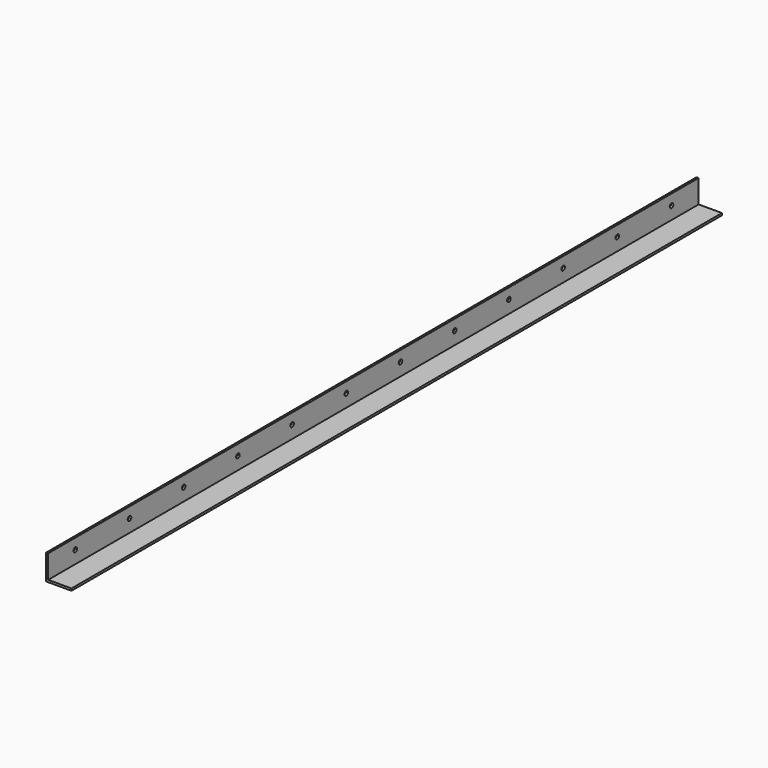
from build123d import *

# Parameters (mm, degrees)
F1_DEPTH = 2438.4
F3_D     = 13.4874


with BuildPart() as f1:
    # F0 (on Front) → F1 (new body)
    with BuildSketch(Plane.XZ):
        Polygon((-57.316309, 46.347476), (-63.666309, 46.347476), (-63.666309, -29.852524), (12.533691, -29.852524), (12.533691, -23.502524), (-57.316309, -23.502524), align=None)
    extrude(amount=F1_DEPTH)

    # F3 (through all)
    with Locations(Plane(origin=(-63.666309, 0, 0), x_dir=(0, -1, 0), z_dir=(-1, 0, 0))):
        with Locations((2336.8, 14.597476), (2133.6, 14.597476), (1930.4, 14.597476), (1727.2, 14.597476), (1524, 14.597476), (1320.8, 14.597476), (1117.6, 14.597476), (914.4, 14.597476), (711.2, 14.597476), (508, 14.597476), (304.8, 14.597476), (101.6, 14.597476)):
            Hole(F3_D / 2)


solid = f1.part
